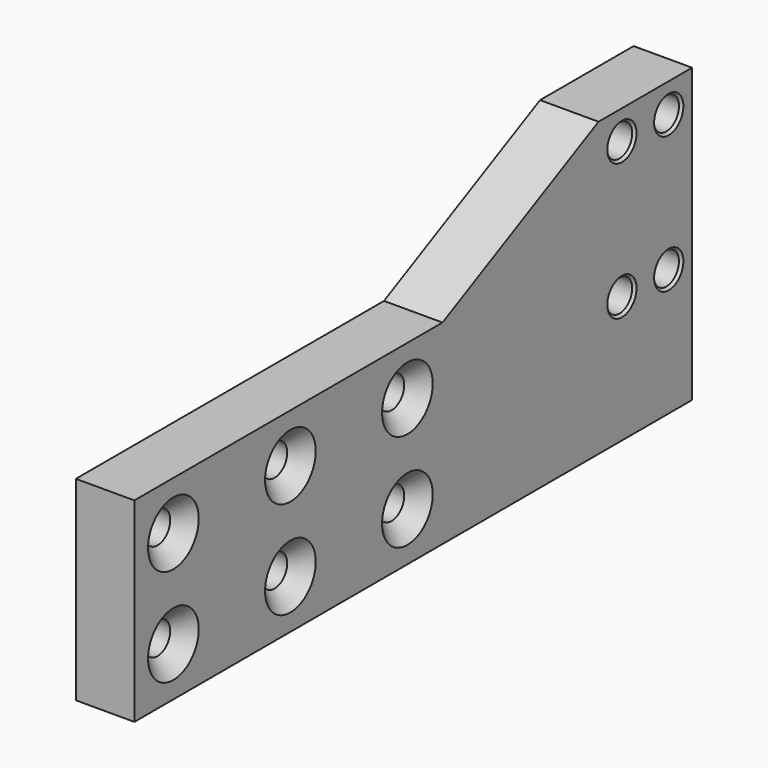
from build123d import *

# Parameters (mm, degrees)
F0_R     = 3.25
F1_DEPTH = 12
F2_SIZE  = 3.25
F3_SIZE  = 0.5


with BuildPart() as f1:
    # F0 (on Right) → F1 (new body)
    with BuildSketch(Plane.YZ):
        Polygon((7.5, 20), (-71.5, 20), (-71.5, -20), (71.5, -20), (71.5, 20), (71.5, 40), (47.5, 40), align=None)
        with Locations((-61.5, -10)):
            Circle(F0_R, mode=Mode.SUBTRACT)
        with Locations((-31.5, -10)):
            Circle(F0_R, mode=Mode.SUBTRACT)
        with Locations((-1.5, -10)):
            Circle(F0_R, mode=Mode.SUBTRACT)
        with Locations((53.5, 5.999998)):
            Circle(F0_R, mode=Mode.SUBTRACT)
        with Locations((65.5, 5.999998)):
            Circle(F0_R, mode=Mode.SUBTRACT)
        with Locations((-61.5, 10)):
            Circle(F0_R, mode=Mode.SUBTRACT)
        with Locations((-31.5, 10)):
            Circle(F0_R, mode=Mode.SUBTRACT)
        with Locations((-1.5, 10)):
            Circle(F0_R, mode=Mode.SUBTRACT)
        with Locations((53.5, 33.999998)):
            Circle(F0_R, mode=Mode.SUBTRACT)
        with Locations((65.5, 33.999998)):
            Circle(F0_R, mode=Mode.SUBTRACT)
    extrude(amount=F1_DEPTH)

    # F2
    f2_edges = [f1.edges().sort_by_distance(p)[0] for p in [
        (12, -64.75, 10),
        (12, -34.75, 10),
        (12, -4.75, 10),
        (12, -4.75, -10),
        (12, -34.75, -10),
        (12, -64.75, -10),
    ]]
    chamfer(f2_edges, length=F2_SIZE)

    # F3
    f3_edges = [f1.edges().sort_by_distance(p)[0] for p in [
        (0, -4.75, -10),
        (0, -4.75, 10),
        (0, -34.75, 10),
        (0, -34.75, -10),
        (0, -64.75, -10),
        (0, -64.75, 10),
        (6, 68.75, 33.999998),
        (0, 62.25, 33.999998),
        (12, 62.25, 33.999998),
        (6, 56.75, 33.999998),
        (0, 50.25, 33.999998),
        (12, 50.25, 33.999998),
        (6, 56.75, 5.999998),
        (0, 50.25, 5.999998),
        (12, 50.25, 5.999998),
        (6, 68.75, 5.999998),
        (0, 62.25, 5.999998),
        (12, 62.25, 5.999998),
    ]]
    chamfer(f3_edges, length=F3_SIZE)


solid = f1.part
